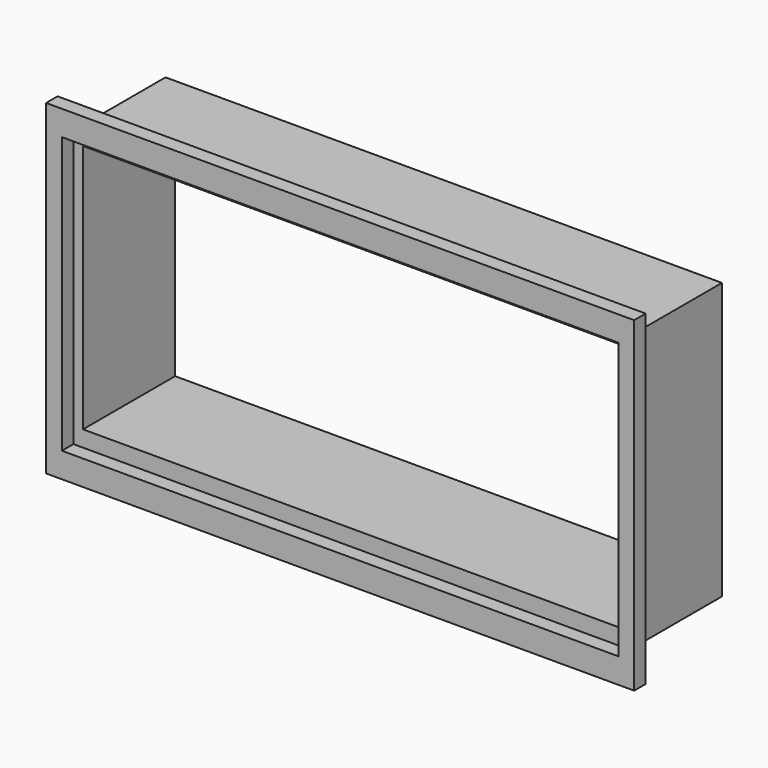
from build123d import *

# Parameters (mm, degrees)
F0_W     = 58
F0_H     = 28.780463
F0_W_2   = 56
F0_H_2   = 26
F1_DEPTH = 12
F0_W_3   = 61.3
F0_H_3   = 34
F2_DEPTH = 1.5


with BuildPart() as f1:
    # F0 (on Front) → F1 (new body)
    with BuildSketch(Plane.XZ):
        with Locations((-389.678915, 93.946087)):
            Rectangle(F0_W, F0_H)
        with Locations((-389.678915, 94.236319)):
            Rectangle(F0_W_2, F0_H_2, mode=Mode.SUBTRACT)
    extrude(amount=-F1_DEPTH)


with BuildPart() as f2:
    # F0 (on Front) → F2 (new body)
    with BuildSketch(Plane.XZ):
        with Locations((-389.678915, 93.936319)):
            Rectangle(F0_W_3, F0_H_3)
        with Locations((-389.678915, 93.946087)):
            Rectangle(F0_W, F0_H, mode=Mode.SUBTRACT)
    extrude(amount=F2_DEPTH)


solid = Compound([f1.part, f2.part])
